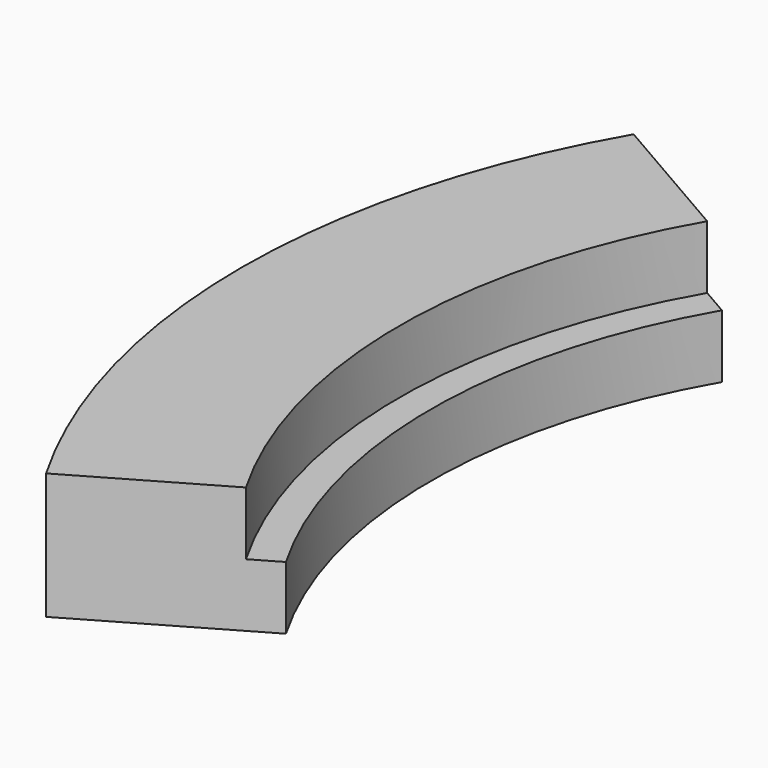
from build123d import *

# Parameters (mm, degrees)
F1_ANGLE = 60


with BuildPart() as f1:
    # F0 (on Front) → F1 (revolve, symmetric)
    with BuildSketch(Plane.XZ) as f1_sk:
        Polygon((-927.841254, -1150.907735), (-1181.841254, -1150.907735), (-1181.841254, -1354.107735), (-877.041254, -1354.107735), (-877.041254, -1252.507735), (-927.841254, -1252.507735), align=None)
    revolve(axis=Axis((0, 0, 1876.999565), (0, 0, -1)), revolution_arc=F1_ANGLE / 2)
    revolve(f1_sk.sketch, axis=Axis((0, 0, 1876.999565), (0, 0, 1)), revolution_arc=F1_ANGLE / 2)


solid = f1.part
